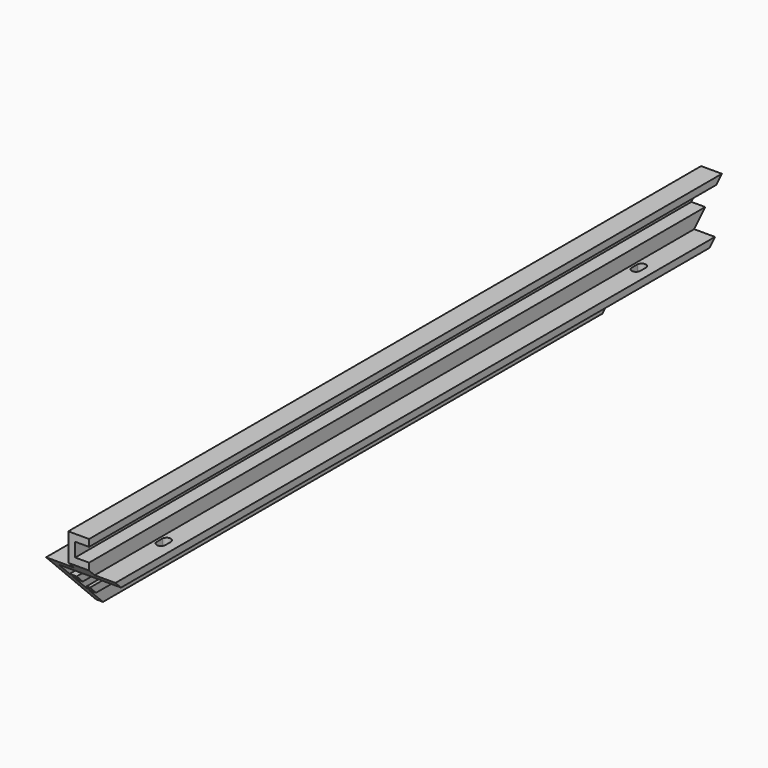
from build123d import *

# Parameters (mm, degrees)
F1_DEPTH = 304.8
F3_DEPTH = 25.4
F5_DEPTH = 50.8
F7_DEPTH = 25.4


with BuildPart() as f1:
    # F0 (on Front) → F1 (new body)
    with BuildSketch(Plane.XZ):
        Polygon((0, 22.86), (0, 0), (2.54, 0), (2.54, 6.35), (5.08, 6.35), (5.08, 9.144), (3.81, 9.144), (3.81, 7.62), (2.54, 7.62), (2.54, 13.97), (3.81, 13.97), (3.81, 12.446), (5.08, 12.446), (5.08, 15.24), (2.54, 15.24), (2.54, 20.32), (25.4, 20.32), (25.4, 22.86), (17.78, 22.86), (17.78, 27.94), (12.7, 27.94), (12.7, 33.02), (17.78, 33.02), (17.78, 35.56), (10.16, 35.56), (10.16, 22.86), align=None)
    extrude(amount=F1_DEPTH)

    # F2 (on face) → F3 (cut)
    with BuildSketch(Plane(origin=(0, 0, 0), x_dir=(0, -1, 0), z_dir=(-1, 0, 0))):
        Polygon((0, 38.1), (0, 0), (38.1, 0), align=None)
        Polygon((304.8, 0), (304.8, 38.1), (266.7, 0), align=None)
    extrude(amount=-F3_DEPTH, mode=Mode.SUBTRACT)

    # F4 (on face) → F5 (cut, symmetric)
    with BuildSketch(Plane.YZ.offset(2.54)):
        Polygon((-292.1, 25.4), (-292.1, 35.56), (-302.26, 35.56), align=None)
    extrude(amount=F5_DEPTH, both=True, mode=Mode.SUBTRACT)

    # F6 (on face) → F7 (cut)
    with BuildSketch(Plane.XY.offset(22.86)):
        with BuildLine():
            ThreePointArc((9.2075, -259.805714), (7.62, -258.218214), (6.0325, -259.805714))
            Line((6.0325, -259.805714), (6.0325, -262.345714))
            ThreePointArc((6.0325, -262.345714), (7.62, -263.933214), (9.2075, -262.345714))
            Line((9.2075, -262.345714), (9.2075, -259.805714))
        make_face()
        with BuildLine():
            Line((21.9075, -262.345714), (21.9075, -259.805714))
            ThreePointArc((21.9075, -259.805714), (20.32, -258.218214), (18.7325, -259.805714))
            Line((18.7325, -259.805714), (18.7325, -262.345714))
            ThreePointArc((18.7325, -262.345714), (20.32, -263.933214), (21.9075, -262.345714))
        make_face()
        with BuildLine():
            Line((9.2075, -44.994286), (9.2075, -42.454286))
            ThreePointArc((9.2075, -42.454286), (7.62, -40.866786), (6.0325, -42.454286))
            Line((6.0325, -42.454286), (6.0325, -44.994286))
            ThreePointArc((6.0325, -44.994286), (7.62, -46.581786), (9.2075, -44.994286))
        make_face()
        with BuildLine():
            ThreePointArc((21.9075, -42.454286), (20.32, -40.866786), (18.7325, -42.454286))
            Line((18.7325, -42.454286), (18.7325, -44.994286))
            ThreePointArc((18.7325, -44.994286), (20.32, -46.581786), (21.9075, -44.994286))
            Line((21.9075, -44.994286), (21.9075, -42.454286))
        make_face()
    extrude(amount=-F7_DEPTH, mode=Mode.SUBTRACT)


solid = f1.part
